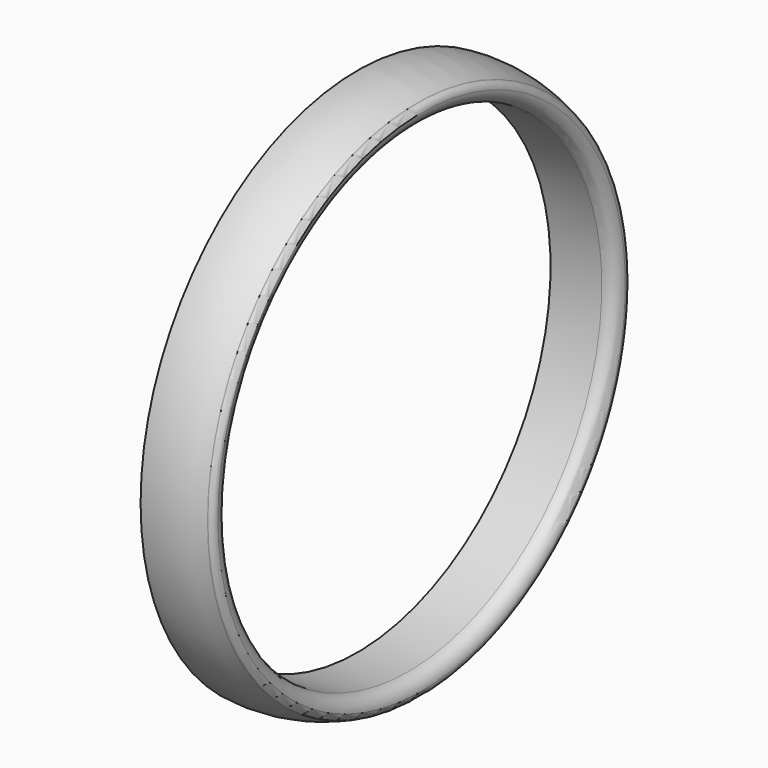
from build123d import *

# Parameters (mm, degrees)
SKETCH001_W = 2773.187988
SKETCH001_H = 2729.466553
PAD_DEPTH   = 120


with BuildPart() as pad:
    # Sketch001 → Pad (new body)
    with BuildSketch(Plane.YZ):
        with Locations((0.000122, 6.245971)):
            Rectangle(SKETCH001_W, SKETCH001_H)
    extrude(amount=PAD_DEPTH)


with BuildPart() as cut:
    # Sketch → Revolution (revolve)
    with BuildSketch(Plane.XY):
        with BuildLine():
            ThreePointArc((14.647409, -801.533556), (158.5, -831.799058), (302.352591, -801.533556))
            Line((302.352591, -801.533556), (303.267814, -801.130607))
            ThreePointArc((303.267814, -801.130607), (313.263433, -792.647113), (317, -780.080485))
            Line((317, -780.070485), (317, -780.080485))
            ThreePointArc((317, -780.070485), (305.284271, -751.786214), (277, -740.070485))
            Line((40, -740.070485), (277, -740.070485))
            ThreePointArc((40, -740.070485), (11.715729, -751.786214), (0, -780.070485))
            Line((0, -780.070485), (0, -780.080485))
            ThreePointArc((0, -780.080485), (3.736567, -792.647113), (13.732186, -801.130607))
            Line((13.732186, -801.130607), (14.647409, -801.533556))
        make_face()
    revolve(axis=Axis((0, 0, 0), (1, 0, 0)))

    # Cut: cut Pad
    add(pad.part, mode=Mode.SUBTRACT)


solid = cut.part
